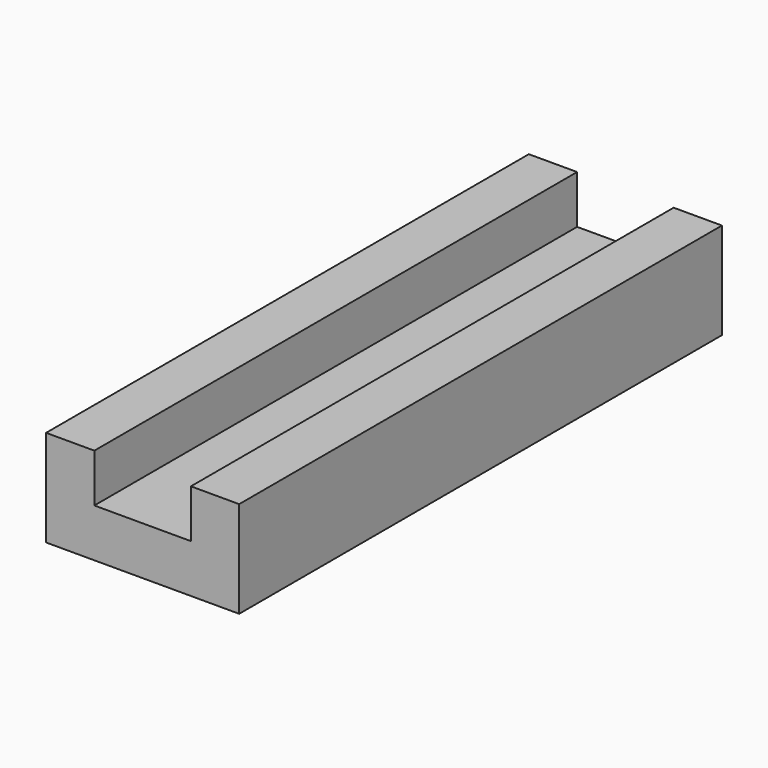
from build123d import *

# Parameters (mm, degrees)
F0_W     = 80
F0_H     = 250
F1_DEPTH = 20
F2_W     = 20
F2_H     = 250
F3_DEPTH = 20


with BuildPart() as f1:
    # F0 (on Top) → F1 (new body)
    with BuildSketch(Plane.XY):
        Rectangle(F0_W, F0_H)
        Rectangle(F0_W, F0_H)
    extrude(amount=F1_DEPTH)

    # F2 (on face) → F3 (join)
    with BuildSketch(Plane.XY.offset(20)):
        with Locations((-30, 0)):
            Rectangle(F2_W, F2_H)
        with Locations((30, 0)):
            Rectangle(F2_W, F2_H)
    extrude(amount=F3_DEPTH)


solid = f1.part
